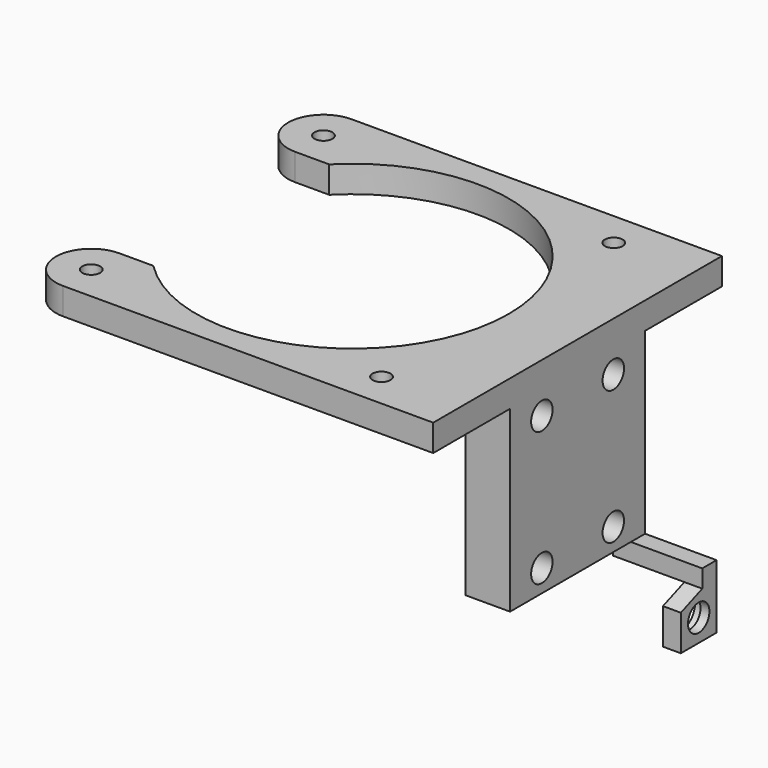
from build123d import *

# Parameters (mm, degrees)
SKETCH_R             = 1
PAD_DEPTH            = 3
SKETCH001_W          = 18.9
SKETCH001_H          = 20
SKETCH001_R          = 1.5
PAD001_DEPTH         = 5
SKETCH002_W          = 2
SKETCH002_H          = 2
PAD002_DEPTH         = 13
SKETCH003_R          = 1.5
PAD003_DEPTH         = 2
SKETCH004_R          = 2
POCKET_DEPTH         = 1
SKETCH005_R          = 3
POCKET001_DEPTH      = 3
POCKET001_DEPTH_BACK = -5


with BuildPart() as part:
    # Sketch (on Face5 of Binder001) → Pad (new body)
    with BuildSketch(Plane(origin=(-16.5, 16.5, 0), x_dir=(0, -1, 0), z_dir=(0, 0, 1))):
        with BuildLine():
            Line((-20.2, 25.2), (20.2, 25.2))
            Line((20.2, 25.2), (20.2, 20.2))
            Line((20.2, 20.2), (20.2, -16.25))
            ThreePointArc((12.3, -16.25), (16.25, -20.2), (20.2, -16.25))
            Line((12.3, -12.448293), (12.3, -16.25))
            ThreePointArc((12.3, -12.448293), (0, 17.5), (-12.3, -12.448293))
            Line((-12.3, -16.25), (-12.3, -12.448293))
            ThreePointArc((-20.2, -16.25), (-16.25, -20.2), (-12.3, -16.25))
            Line((-20.2, 20.2), (-20.2, -16.25))
            Line((-20.2, 20.2), (-20.2, 25.2))
        make_face()
        with Locations((-16.25, 16.25)):
            Circle(SKETCH_R, mode=Mode.SUBTRACT)
        with Locations((16.25, 16.25)):
            Circle(SKETCH_R, mode=Mode.SUBTRACT)
        with Locations((16.25, -16.25)):
            Circle(SKETCH_R, mode=Mode.SUBTRACT)
        with Locations((-16.25, -16.25)):
            Circle(SKETCH_R, mode=Mode.SUBTRACT)
    extrude(amount=PAD_DEPTH)

    # Sketch001 (on Face4 of Pad) → Pad001 (join)
    with BuildSketch(Plane(origin=(8.7, 16.5, -29.5), x_dir=(0, 1, 0), z_dir=(1, 0, 0))):
        with Locations((0, 19.5)):
            Rectangle(SKETCH001_W, SKETCH001_H)
        with Locations((-5, 27)):
            Circle(SKETCH001_R, mode=Mode.SUBTRACT)
        with Locations((5, 27)):
            Circle(SKETCH001_R, mode=Mode.SUBTRACT)
        with Locations((-5, 12)):
            Circle(SKETCH001_R, mode=Mode.SUBTRACT)
        with Locations((5, 12)):
            Circle(SKETCH001_R, mode=Mode.SUBTRACT)
    extrude(amount=-PAD001_DEPTH)

    # Sketch002 (on Face10 of Pad001) → Pad002 (join)
    with BuildSketch(Plane(origin=(3.7, 16.5, -29.5), x_dir=(0, -1, 0), z_dir=(-1, 0, 0))):
        with Locations((-8.45, 8.5)):
            Rectangle(SKETCH002_W, SKETCH002_H)
    extrude(amount=-PAD002_DEPTH)

    # Sketch003 (on Face30 of Pad002) → Pad003 (join)
    with BuildSketch(Plane(origin=(16.7, 16.5, -29.5), x_dir=(0, 1, 0), z_dir=(1, 0, 0))):
        Polygon((4.45, 2.35), (9.45, 2.35), (9.45, 9.5), (7.45, 9.5), (7.45, 7.5), (4.45, 6.35), align=None)
        with Locations((6.95, 4.85)):
            Circle(SKETCH003_R, mode=Mode.SUBTRACT)
    extrude(amount=-PAD003_DEPTH)

    # Sketch004 (on Face35 of Pad003) → Pocket (cut)
    with BuildSketch(Plane(origin=(14.7, 16.5, -29.5), x_dir=(0, -1, 0), z_dir=(-1, 0, 0))):
        with Locations((-6.95, 4.85)):
            Circle(SKETCH004_R)
    extrude(amount=-POCKET_DEPTH, mode=Mode.SUBTRACT)

    # Sketch005 (on Face10 of Pocket) → Pocket001 (cut, two sides)
    with BuildSketch(Plane(origin=(3.7, 16.5, -29.5), x_dir=(0, -1, 0), z_dir=(-1, 0, 0))) as pocket001_sk:
        with Locations((-5, 27)):
            Circle(SKETCH005_R)
        with Locations((5, 27)):
            Circle(SKETCH005_R)
        with BuildLine():
            ThreePointArc((-2, 12.000001), (-5, 15), (-8, 12.000001))
            Line((-8, 7.5), (-8, 12.000001))
            Line((-2, 7.5), (-8, 7.5))
            Line((-2, 12.000001), (-2, 7.5))
        make_face()
        with BuildLine():
            ThreePointArc((8, 11.999976), (5, 15), (2, 11.999976))
            Line((2, 11.999976), (2, 9.5))
            Line((2, 9.5), (8, 9.5))
            Line((8, 9.5), (8, 11.999976))
        make_face()
    extrude(amount=-POCKET001_DEPTH, mode=Mode.SUBTRACT)
    extrude(pocket001_sk.sketch, amount=-POCKET001_DEPTH_BACK, mode=Mode.SUBTRACT)


with BuildPart() as part_1:
    # Body placement: moved
    add(part.part.moved(Location((0, 0, -4))))


solid = part_1.part
